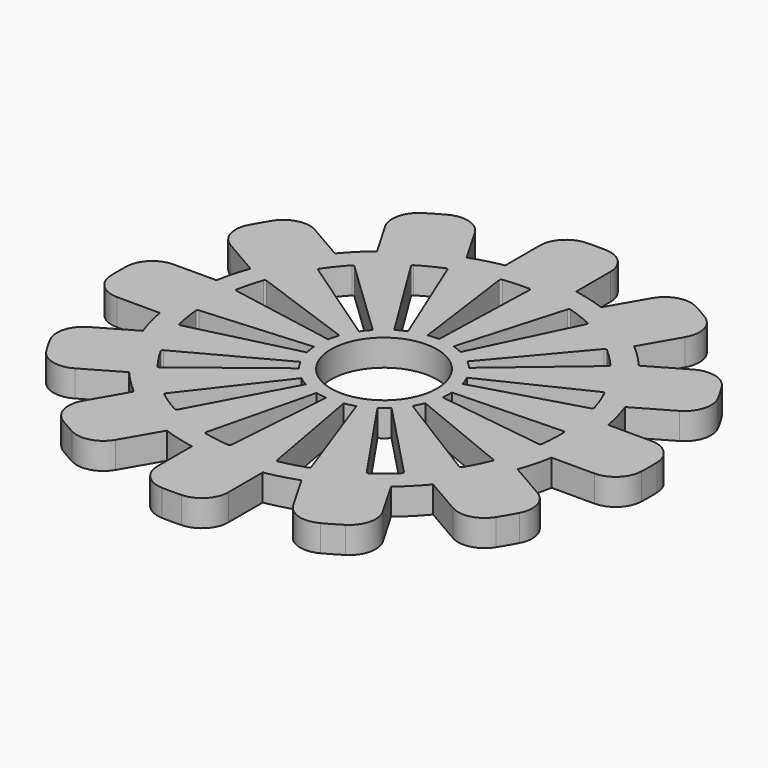
from build123d import *

# Parameters (mm, degrees)
F0_R     = 6
F1_DEPTH = 3


with BuildPart() as f1:
    # F0 (on Top) → F1 (new body)
    with BuildSketch(Plane.XY):
        with BuildLine():
            ThreePointArc((-21.366643, 16.954839), (-23.589295, 17.268425), (-25.407381, 15.951959))
            ThreePointArc((-25.407381, 15.951959), (-25.980762, 15), (-26.518492, 14.027458))
            ThreePointArc((-26.518492, 14.027458), (-26.749542, 11.794716), (-25.366643, 10.026636))
            Line((-25.366643, 10.026636), (-21.175179, 7.606693))
            ThreePointArc((-21.175179, 7.606693), (-21.733331, 5.823429), (-22.14159, 4))
            Line((-22.14159, 4), (-26.981475, 4))
            ThreePointArc((-26.981475, 4), (-29.063141, 3.160247), (-29.979417, 1.111111))
            ThreePointArc((-29.979417, 1.111111), (-30, 0), (-29.979417, -1.111111))
            ThreePointArc((-29.979417, -1.111111), (-29.063141, -3.160247), (-26.981475, -4))
            Line((-26.981475, -4), (-22.14159, -4))
            ThreePointArc((-22.14159, -4), (-21.733331, -5.823429), (-21.175179, -7.606693))
            Line((-21.175179, -7.606693), (-25.366643, -10.026636))
            ThreePointArc((-25.366643, -10.026636), (-26.749542, -11.794716), (-26.518492, -14.027458))
            ThreePointArc((-26.518492, -14.027458), (-25.980762, -15), (-25.407381, -15.951959))
            ThreePointArc((-25.407381, -15.951959), (-23.589295, -17.268425), (-21.366643, -16.954839))
            Line((-21.366643, -16.954839), (-17.175179, -14.534897))
            ThreePointArc((-17.175179, -14.534897), (-15.909903, -15.909903), (-14.534897, -17.175179))
            Line((-14.534897, -17.175179), (-16.954839, -21.366643))
            ThreePointArc((-16.954839, -21.366643), (-17.268425, -23.589295), (-15.951959, -25.407381))
            ThreePointArc((-15.951959, -25.407381), (-15, -25.980762), (-14.027458, -26.518492))
            ThreePointArc((-14.027458, -26.518492), (-11.794716, -26.749542), (-10.026636, -25.366643))
            Line((-10.026636, -25.366643), (-7.606693, -21.175179))
            ThreePointArc((-7.606693, -21.175179), (-5.823429, -21.733331), (-4, -22.14159))
            Line((-4, -22.14159), (-4, -26.981475))
            ThreePointArc((-4, -26.981475), (-3.160247, -29.063141), (-1.111111, -29.979417))
            ThreePointArc((-1.111111, -29.979417), (0, -30), (1.111111, -29.979417))
            ThreePointArc((1.111111, -29.979417), (3.160247, -29.063141), (4, -26.981475))
            Line((4, -26.981475), (4, -22.14159))
            ThreePointArc((4, -22.14159), (5.823429, -21.733331), (7.606693, -21.175179))
            Line((7.606693, -21.175179), (10.026636, -25.366643))
            ThreePointArc((10.026636, -25.366643), (11.794716, -26.749542), (14.027458, -26.518492))
            ThreePointArc((14.027458, -26.518492), (15, -25.980762), (15.951959, -25.407381))
            ThreePointArc((15.951959, -25.407381), (17.268425, -23.589295), (16.954839, -21.366643))
            Line((16.954839, -21.366643), (14.534897, -17.175179))
            ThreePointArc((14.534897, -17.175179), (15.909903, -15.909903), (17.175179, -14.534897))
            Line((17.175179, -14.534897), (21.366643, -16.954839))
            ThreePointArc((21.366643, -16.954839), (23.589295, -17.268425), (25.407381, -15.951959))
            ThreePointArc((25.407381, -15.951959), (25.980762, -15), (26.518492, -14.027458))
            ThreePointArc((26.518492, -14.027458), (26.749542, -11.794716), (25.366643, -10.026636))
            Line((25.366643, -10.026636), (21.175179, -7.606693))
            ThreePointArc((21.175179, -7.606693), (21.733331, -5.823429), (22.14159, -4))
            Line((22.14159, -4), (26.981475, -4))
            ThreePointArc((26.981475, -4), (29.063141, -3.160247), (29.979417, -1.111111))
            ThreePointArc((29.979417, -1.111111), (30, 0), (29.979417, 1.111111))
            ThreePointArc((29.979417, 1.111111), (29.063141, 3.160247), (26.981475, 4))
            Line((26.981475, 4), (22.14159, 4))
            ThreePointArc((22.14159, 4), (21.733331, 5.823429), (21.175179, 7.606693))
            Line((21.175179, 7.606693), (25.366643, 10.026636))
            ThreePointArc((25.366643, 10.026636), (26.749542, 11.794716), (26.518492, 14.027458))
            ThreePointArc((26.518492, 14.027458), (25.980762, 15), (25.407381, 15.951959))
            ThreePointArc((25.407381, 15.951959), (23.589295, 17.268425), (21.366643, 16.954839))
            Line((21.366643, 16.954839), (17.175179, 14.534897))
            ThreePointArc((17.175179, 14.534897), (15.909903, 15.909903), (14.534897, 17.175179))
            Line((14.534897, 17.175179), (16.954839, 21.366643))
            ThreePointArc((16.954839, 21.366643), (17.268425, 23.589295), (15.951959, 25.407381))
            ThreePointArc((15.951959, 25.407381), (15, 25.980762), (14.027458, 26.518492))
            ThreePointArc((14.027458, 26.518492), (11.794716, 26.749542), (10.026636, 25.366643))
            Line((10.026636, 25.366643), (7.606693, 21.175179))
            ThreePointArc((7.606693, 21.175179), (5.823429, 21.733331), (4, 22.14159))
            Line((4, 22.14159), (4, 26.981475))
            ThreePointArc((4, 26.981475), (3.160247, 29.063141), (1.111111, 29.979417))
            ThreePointArc((1.111111, 29.979417), (0, 30), (-1.111111, 29.979417))
            ThreePointArc((-1.111111, 29.979417), (-3.160247, 29.063141), (-4, 26.981475))
            Line((-4, 26.981475), (-4, 22.14159))
            ThreePointArc((-4, 22.14159), (-5.823429, 21.733331), (-7.606693, 21.175179))
            Line((-7.606693, 21.175179), (-10.026636, 25.366643))
            ThreePointArc((-10.026636, 25.366643), (-11.794716, 26.749542), (-14.027458, 26.518492))
            ThreePointArc((-14.027458, 26.518492), (-15, 25.980762), (-15.951959, 25.407381))
            ThreePointArc((-15.951959, 25.407381), (-17.268425, 23.589295), (-16.954839, 21.366643))
            Line((-16.954839, 21.366643), (-14.534897, 17.175179))
            ThreePointArc((-14.534897, 17.175179), (-15.909903, 15.909903), (-17.175179, 14.534897))
            Line((-17.175179, 14.534897), (-21.366643, 16.954839))
        make_face()
        with BuildLine():
            ThreePointArc((-4.592628, -5.929398), (-4.084793, -6.290029), (-3.548785, -6.607278))
            Line((-3.548785, -6.607278), (-9.368313, -17.442325))
            ThreePointArc((-9.368313, -17.442325), (-9.487804, -17.539484), (-9.640916, -17.52292))
            ThreePointArc((-9.640916, -17.52292), (-10.892781, -16.773411), (-12.08667, -15.934629))
            ThreePointArc((-12.08667, -15.934629), (-12.164079, -15.801491), (-12.123921, -15.652813))
            Line((-12.123921, -15.652813), (-4.592628, -5.929398))
        make_face(mode=Mode.SUBTRACT)
        with BuildLine():
            ThreePointArc((-6.607278, -3.548785), (-6.290029, -4.084793), (-5.929398, -4.592628))
            Line((-5.929398, -4.592628), (-15.652813, -12.123921))
            ThreePointArc((-15.652813, -12.123921), (-15.801491, -12.164079), (-15.934629, -12.08667))
            ThreePointArc((-15.934629, -12.08667), (-16.773411, -10.892781), (-17.52292, -9.640916))
            ThreePointArc((-17.52292, -9.640916), (-17.539484, -9.487804), (-17.442325, -9.368313))
            Line((-17.442325, -9.368313), (-6.607278, -3.548785))
        make_face(mode=Mode.SUBTRACT)
        with BuildLine():
            ThreePointArc((-1.783871, -7.284765), (-1.173258, -7.407663), (-0.554554, -7.47947))
            Line((-0.554554, -7.47947), (-1.463947, -19.744793))
            ThreePointArc((-1.463947, -19.744793), (-1.533589, -19.882154), (-1.680202, -19.929298))
            ThreePointArc((-1.680202, -19.929298), (-3.128689, -19.753767), (-4.560525, -19.4731))
            ThreePointArc((-4.560525, -19.4731), (-4.685394, -19.382957), (-4.70918, -19.230799))
            Line((-4.70918, -19.230799), (-1.783871, -7.284765))
        make_face(mode=Mode.SUBTRACT)
        with BuildLine():
            ThreePointArc((-7.47947, -0.554554), (-7.407663, -1.173258), (-7.284765, -1.783871))
            Line((-7.284765, -1.783871), (-19.230799, -4.70918))
            ThreePointArc((-19.230799, -4.70918), (-19.382957, -4.685394), (-19.4731, -4.560525))
            ThreePointArc((-19.4731, -4.560525), (-19.753767, -3.128689), (-19.929298, -1.680202))
            ThreePointArc((-19.929298, -1.680202), (-19.882154, -1.533589), (-19.744793, -1.463947))
            Line((-19.744793, -1.463947), (-7.47947, -0.554554))
        make_face(mode=Mode.SUBTRACT)
        with BuildLine():
            ThreePointArc((1.333333, -7.38053), (1.941143, -7.244444), (2.535564, -7.058393))
            Line((2.535564, -7.058393), (6.693549, -18.633207))
            ThreePointArc((6.693549, -18.633207), (6.685797, -18.787018), (6.571035, -18.889719))
            ThreePointArc((6.571035, -18.889719), (5.176381, -19.318517), (3.754176, -19.644494))
            ThreePointArc((3.754176, -19.644494), (3.603439, -19.612933), (3.51982, -19.483605))
            Line((3.51982, -19.483605), (1.333333, -7.38053))
        make_face(mode=Mode.SUBTRACT)
        with BuildLine():
            Line((5.18726, -5.416856), (13.693669, -14.29977))
            ThreePointArc((13.693669, -14.29977), (13.749148, -14.443436), (13.68608, -14.583937))
            ThreePointArc((13.68608, -14.583937), (12.586408, -15.542919), (11.419746, -16.419178))
            ThreePointArc((11.419746, -16.419178), (11.269204, -16.451656), (11.140212, -16.367519))
            Line((11.140212, -16.367519), (4.219993, -6.200134))
            ThreePointArc((4.219993, -6.200134), (4.719903, -5.828595), (5.18726, -5.416856))
        make_face(mode=Mode.SUBTRACT)
        Circle(F0_R, mode=Mode.SUBTRACT)
        with BuildLine():
            ThreePointArc((6.376977, -3.947679), (6.682549, -3.404929), (6.942032, -2.838695))
            Line((6.942032, -2.838695), (18.32603, -7.493773))
            ThreePointArc((18.32603, -7.493773), (18.435147, -7.602453), (18.434678, -7.756459))
            ThreePointArc((18.434678, -7.756459), (17.82013, -9.07981), (17.110739, -10.354836))
            ThreePointArc((17.110739, -10.354836), (16.986421, -10.445737), (16.83436, -10.42134))
            Line((16.83436, -10.42134), (6.376977, -3.947679))
        make_face(mode=Mode.SUBTRACT)
        with BuildLine():
            ThreePointArc((7.431324, -1.012634), (7.489722, -0.39252), (7.496463, 0.230302))
            Line((7.496463, 0.230302), (19.789653, 0.607965))
            ThreePointArc((19.789653, 0.607965), (19.933541, 0.553063), (19.995752, 0.412181))
            ThreePointArc((19.995752, 0.412181), (19.972591, -1.046719), (19.843129, -2.500049))
            ThreePointArc((19.843129, -2.500049), (19.766532, -2.633656), (19.617694, -2.673217))
            Line((19.617694, -2.673217), (7.431324, -1.012634))
        make_face(mode=Mode.SUBTRACT)
        with BuildLine():
            Line((-18.633207, 6.693549), (-7.058393, 2.535564))
            ThreePointArc((-7.058393, 2.535564), (-7.244444, 1.941143), (-7.38053, 1.333333))
            Line((-7.38053, 1.333333), (-19.483605, 3.51982))
            ThreePointArc((-19.483605, 3.51982), (-19.612933, 3.603439), (-19.644494, 3.754176))
            ThreePointArc((-19.644494, 3.754176), (-19.318517, 5.176381), (-18.889719, 6.571035))
            ThreePointArc((-18.889719, 6.571035), (-18.787018, 6.685797), (-18.633207, 6.693549))
        make_face(mode=Mode.SUBTRACT)
        with BuildLine():
            ThreePointArc((-5.416856, 5.18726), (-5.828595, 4.719903), (-6.200134, 4.219993))
            Line((-6.200134, 4.219993), (-16.367519, 11.140212))
            ThreePointArc((-16.367519, 11.140212), (-16.451656, 11.269204), (-16.419178, 11.419746))
            ThreePointArc((-16.419178, 11.419746), (-15.542919, 12.586408), (-14.583937, 13.68608))
            ThreePointArc((-14.583937, 13.68608), (-14.443436, 13.749148), (-14.29977, 13.693669))
            Line((-14.29977, 13.693669), (-5.416856, 5.18726))
        make_face(mode=Mode.SUBTRACT)
        with BuildLine():
            ThreePointArc((-2.838695, 6.942032), (-3.404929, 6.682549), (-3.947679, 6.376977))
            Line((-3.947679, 6.376977), (-10.42134, 16.83436))
            ThreePointArc((-10.42134, 16.83436), (-10.445737, 16.986421), (-10.354836, 17.110739))
            ThreePointArc((-10.354836, 17.110739), (-9.07981, 17.82013), (-7.756459, 18.434678))
            ThreePointArc((-7.756459, 18.434678), (-7.602453, 18.435147), (-7.493773, 18.32603))
            Line((-7.493773, 18.32603), (-2.838695, 6.942032))
        make_face(mode=Mode.SUBTRACT)
        with BuildLine():
            ThreePointArc((0.230302, 7.496463), (-0.39252, 7.489722), (-1.012634, 7.431324))
            Line((-1.012634, 7.431324), (-2.673217, 19.617694))
            ThreePointArc((-2.673217, 19.617694), (-2.633656, 19.766532), (-2.500049, 19.843129))
            ThreePointArc((-2.500049, 19.843129), (-1.046719, 19.972591), (0.412181, 19.995752))
            ThreePointArc((0.412181, 19.995752), (0.553063, 19.933541), (0.607965, 19.789653))
            Line((0.607965, 19.789653), (0.230302, 7.496463))
        make_face(mode=Mode.SUBTRACT)
        with BuildLine():
            ThreePointArc((7.200727, 2.097505), (7.001853, 2.68776), (6.754688, 3.259477))
            Line((6.754688, 3.259477), (17.831466, 8.604581))
            ThreePointArc((17.831466, 8.604581), (17.985245, 8.61295), (18.099379, 8.509552))
            ThreePointArc((18.099379, 8.509552), (18.671609, 7.167359), (19.144462, 5.787019))
            ThreePointArc((19.144462, 5.787019), (19.12883, 5.633809), (19.00895, 5.53713))
            Line((19.00895, 5.53713), (7.200727, 2.097505))
        make_face(mode=Mode.SUBTRACT)
        with BuildLine():
            ThreePointArc((3.259477, 6.754688), (2.68776, 7.001853), (2.097505, 7.200727))
            Line((2.097505, 7.200727), (5.53713, 19.00895))
            ThreePointArc((5.53713, 19.00895), (5.633809, 19.12883), (5.787019, 19.144462))
            ThreePointArc((5.787019, 19.144462), (7.167359, 18.671609), (8.509552, 18.099379))
            ThreePointArc((8.509552, 18.099379), (8.61295, 17.985245), (8.604581, 17.831466))
            Line((8.604581, 17.831466), (3.259477, 6.754688))
        make_face(mode=Mode.SUBTRACT)
        with BuildLine():
            ThreePointArc((5.72506, 4.844966), (5.303301, 5.303301), (4.844966, 5.72506))
            Line((4.844966, 5.72506), (12.790056, 15.113387))
            ThreePointArc((12.790056, 15.113387), (12.927136, 15.183579), (13.073459, 15.135543))
            ThreePointArc((13.073459, 15.135543), (14.142136, 14.142136), (15.135543, 13.073459))
            ThreePointArc((15.135543, 13.073459), (15.183579, 12.927136), (15.113387, 12.790056))
            Line((15.113387, 12.790056), (5.72506, 4.844966))
        make_face(mode=Mode.SUBTRACT)
    extrude(amount=F1_DEPTH)


solid = f1.part
